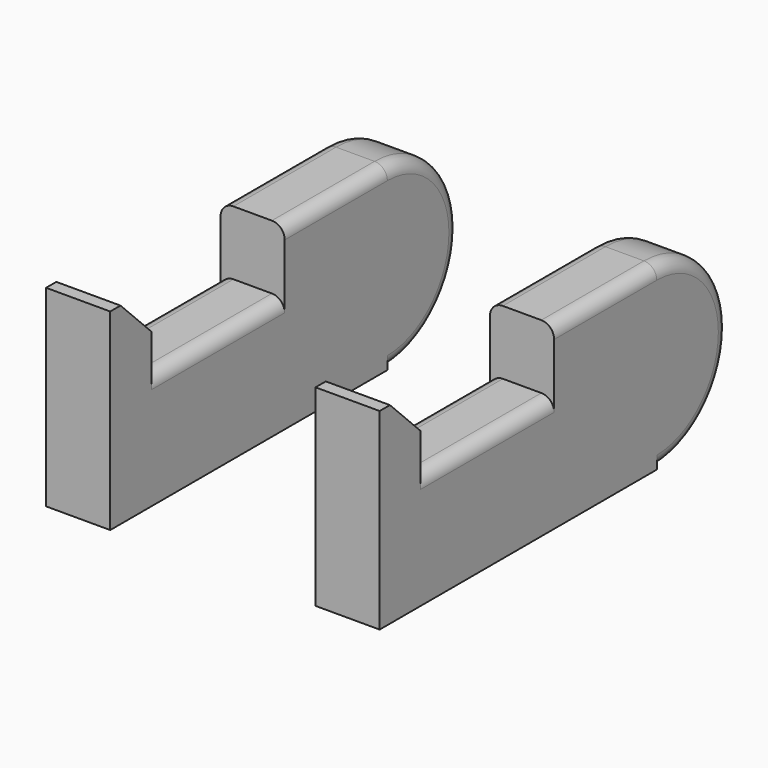
from build123d import *

# Parameters (mm, degrees)
BOX003_W          = 5
BOX003_H          = 13
BOX003_DEPTH      = 9
FILLET004_R       = 1
CYLINDER006_R     = 7
CYLINDER006_DEPTH = 5
FILLET005_R       = 1
BOX001_W          = 5
BOX001_H          = 10
BOX001_DEPTH      = 14
FILLET006_R       = 1
BOX006_W          = 5
BOX006_H          = 4
BOX006_DEPTH      = 15
CHAMFER_SIZE      = 3


with BuildPart() as fillet004:
    # Box003 → Box003 (new body)
    with BuildSketch(Plane(origin=(8, -39, 0), x_dir=(1, 0, 0), z_dir=(0, 0, 1))):
        with Locations((2.5, 6.5)):
            Rectangle(BOX003_W, BOX003_H)
    extrude(amount=BOX003_DEPTH)

    # Fillet004
    fillet004_edges = [fillet004.edges().sort_by_distance(p)[0] for p in [
        (8, -32.5, 9),
        (13, -32.5, 9),
    ]]
    fillet(fillet004_edges, radius=FILLET004_R)


with BuildPart() as fillet005:
    # Cylinder006 → Cylinder006 (new body)
    with BuildSketch(Plane(origin=(8, -16, 7), x_dir=(0, 0, -1), z_dir=(1, 0, 0))):
        Circle(CYLINDER006_R)
    extrude(amount=CYLINDER006_DEPTH)

    # Fillet005
    fillet005_edges = [fillet005.edges().sort_by_distance(p)[0] for p in [
        (13, -16, 14),
        (8, -16, 14),
    ]]
    fillet(fillet005_edges, radius=FILLET005_R)


with BuildPart() as fillet006:
    # Box001 → Box001 (new body)
    with BuildSketch(Plane(origin=(8, -26, 0), x_dir=(1, 0, 0), z_dir=(0, 0, 1))):
        with Locations((2.5, 5)):
            Rectangle(BOX001_W, BOX001_H)
    extrude(amount=BOX001_DEPTH)

    # Fillet006
    fillet006_edges = [fillet006.edges().sort_by_distance(p)[0] for p in [
        (8, -21, 14),
        (13, -21, 14),
    ]]
    fillet(fillet006_edges, radius=FILLET006_R)


with BuildPart() as fusion001:
    # Box006 → Box006 (new body)
    with BuildSketch(Plane(origin=(8, -43, 0), x_dir=(1, 0, 0), z_dir=(0, 0, 1))):
        with Locations((2.5, 2)):
            Rectangle(BOX006_W, BOX006_H)
    extrude(amount=BOX006_DEPTH)

    # Chamfer
    chamfer_edges = [fusion001.edges().sort_by_distance(p)[0] for p in [
        (10.5, -39, 15),
    ]]
    chamfer(chamfer_edges, length=CHAMFER_SIZE)

    # Fusion001: union Fillet004, Fillet005, Fillet006
    add(fillet004.part)
    add(fillet005.part)
    add(fillet006.part)


with BuildPart() as front_legs:
    # Part__Mirroring: instance of Fusion001
    add(fusion001.part.mirror(Plane(origin=(0, 0, 0), x_dir=(0, -1, 0), z_dir=(1, 0, 0))))

    # Fusion003: union Fusion001
    add(fusion001.part)


solid = front_legs.part
